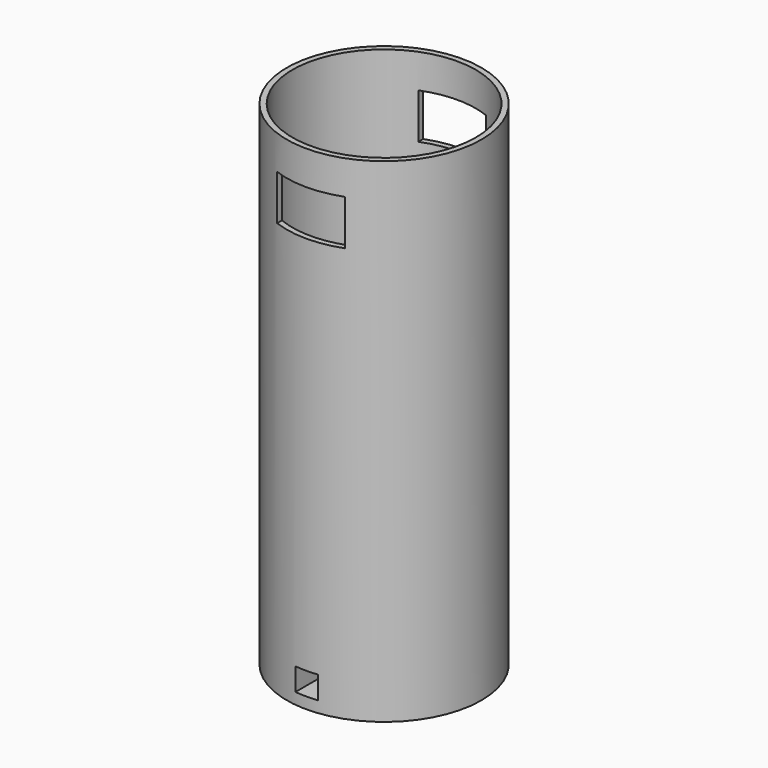
from build123d import *

# Parameters (mm, degrees)
SKETCH_R             = 8.6
PAD_DEPTH            = 1
SKETCH001_R          = 8.6
SKETCH001_R_2        = 3.2
PAD001_DEPTH         = 6.6
SKETCH002_W          = 2
SKETCH002_H          = 2
POCKET_DEPTH         = 8.601
POCKET_DEPTH_BACK    = -8.601
SKETCH003_R          = 8.6
SKETCH003_R_2        = 8.1
PAD002_DEPTH         = 36
SKETCH004_W          = 6
SKETCH004_H          = 4
POCKET001_DEPTH      = 8.601
POCKET001_DEPTH_BACK = -8.601


with BuildPart() as part:
    # Sketch → Pad (new body)
    with BuildSketch(Plane.XY):
        Circle(SKETCH_R)
    extrude(amount=PAD_DEPTH)

    # Sketch001 (on Face3 of Pad) → Pad001 (join)
    with BuildSketch(Plane.XY.offset(1)):
        Circle(SKETCH001_R)
        Circle(SKETCH001_R_2, mode=Mode.SUBTRACT)
    extrude(amount=PAD001_DEPTH)

    # Sketch002 → Pocket (cut, two sides)
    with BuildSketch(Plane.XZ) as pocket_sk:
        with Locations((0, 2)):
            Rectangle(SKETCH002_W, SKETCH002_H)
    extrude(amount=-POCKET_DEPTH, mode=Mode.SUBTRACT)
    extrude(pocket_sk.sketch, amount=-POCKET_DEPTH_BACK, mode=Mode.SUBTRACT)

    # Sketch003 (on Face12 of Pocket) → Pad002 (join)
    with BuildSketch(Plane.XY.offset(7.6)):
        Circle(SKETCH003_R)
        Circle(SKETCH003_R_2, mode=Mode.SUBTRACT)
    extrude(amount=PAD002_DEPTH)

    # Sketch004 → Pocket001 (cut, two sides)
    with BuildSketch(Plane.XZ) as pocket001_sk:
        with Locations((0, 38.6)):
            Rectangle(SKETCH004_W, SKETCH004_H)
    extrude(amount=-POCKET001_DEPTH, mode=Mode.SUBTRACT)
    extrude(pocket001_sk.sketch, amount=-POCKET001_DEPTH_BACK, mode=Mode.SUBTRACT)


solid = part.part
